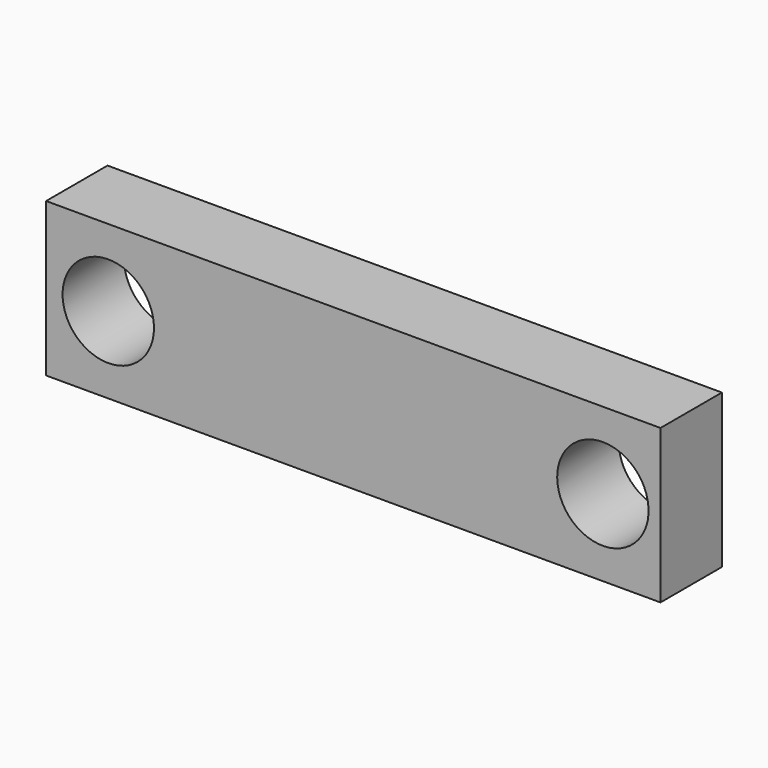
from build123d import *

# Parameters (mm, degrees)
F0_W     = 406.4
F0_H     = 101.6
F1_DEPTH = 50.8
F3_DEPTH = 50.801


with BuildPart() as f1:
    # F0 (on Front) → F1 (new body)
    with BuildSketch(Plane.XZ):
        with Locations((139.837001, 12.180084)):
            Rectangle(F0_W, F0_H)
    extrude(amount=F1_DEPTH)

    # F2 (on face) → F3 (cut, through all)
    with BuildSketch(Plane.XZ.offset(50.8)):
        with BuildLine():
            ThreePointArc((-52.440999, 12.180084), (-22.214999, -18.045916), (8.011001, 12.180084))
            ThreePointArc((8.011001, 12.180084), (-22.214999, 42.406084), (-52.440999, 12.180084))
        make_face()
        with BuildLine():
            ThreePointArc((335.163001, 12.180084), (304.937001, 42.406084), (274.711001, 12.180084))
            ThreePointArc((274.711001, 12.180084), (304.937001, -18.045916), (335.163001, 12.180084))
        make_face()
    extrude(amount=-F3_DEPTH, mode=Mode.SUBTRACT)


solid = f1.part
